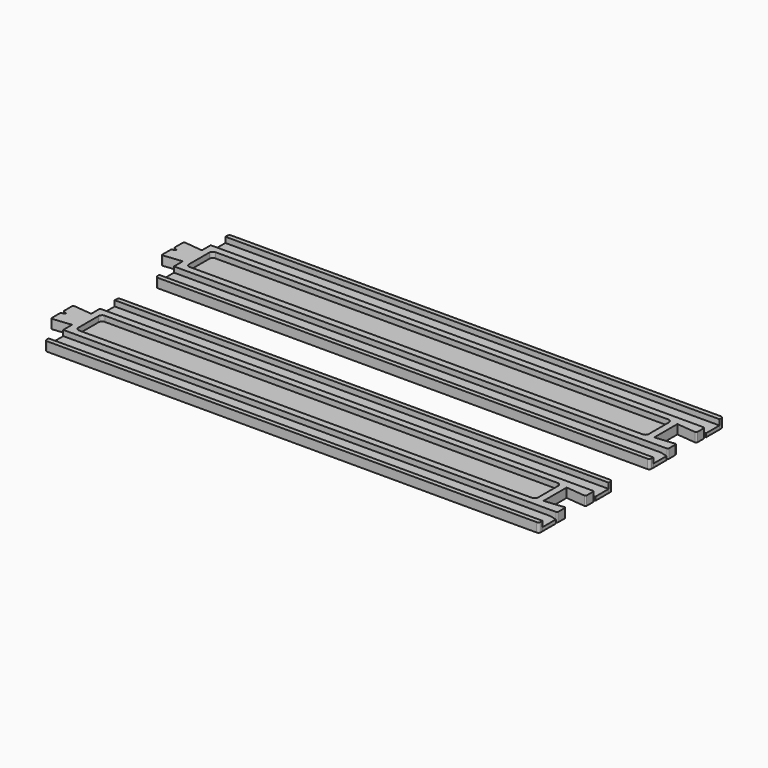
from build123d import *

# Parameters (mm, degrees)
F1_DEPTH = 2
F2_DEPTH = 0.8


with BuildPart() as f1:
    # F0 (on Top) → F1 (new body)
    with BuildSketch(Plane.XY):
        with BuildLine():
            Line((48.9310387218, 1), (-57.6689612782, 1))
            ThreePointArc((-57.6689612782, 1), (-58.0225146688, 0.8535533906), (-58.1689612782, 0.5))
            Line((-58.1689612782, 0.5), (-58.1689612782, 0))
            Line((-58.1689612782, 0), (49.4310387218, 0))
            Line((49.4310387218, 0), (49.4310387218, 0.5))
            ThreePointArc((49.4310387218, 0.5), (49.2845921124, 0.8535533906), (48.9310387218, 1))
        make_face()
    extrude(amount=F1_DEPTH)


with BuildPart() as f1b:
    # F0 (on Top) → F1, piece 2 (new body)
    with BuildSketch(Plane.XY):
        with BuildLine():
            Line((47.9310387218, -4), (-58.1689612782, -4))
            Line((-58.1689612782, -4), (-58.1689612782, -6.4))
            Line((-58.1689612782, -6.4), (-62.1691871508, -5.9790603277))
            ThreePointArc((-62.1691871508, -5.9790603277), (-62.362621132, -6.0418910502), (-62.4453499415, -6.2276875755))
            Line((-62.4453499415, -6.2276875755), (-62.4453499415, -8.5))
            Line((-62.4453499415, -8.5), (-61.5793245377, -9))
            Line((-61.5793245377, -9), (-62.4453499415, -9.5))
            Line((-62.4453499415, -9.5), (-62.4453499415, -11.7723124245))
            ThreePointArc((-62.4453499415, -11.7723124245), (-62.362621132, -11.9581089498), (-62.1691871508, -12.0209396723))
            Line((-62.1691871508, -12.0209396723), (-58.1689612782, -11.6))
            Line((-58.1689612782, -11.6), (-58.1689612782, -14))
            Line((-58.1689612782, -14), (47.9310387218, -14))
            Line((47.9310387218, -14), (49.1810387199, -14))
            ThreePointArc((49.1810387199, -14), (49.3578154159, -13.9267766946), (49.4310387199, -13.7499999981))
            Line((49.4310387199, -13.7499999981), (49.4310387064, -11.9763853971))
            ThreePointArc((49.4310387064, -11.9763853971), (49.348743804, -11.7909804362), (49.1560387064, -11.7276385397))
            Line((49.1560387064, -11.7276385397), (44.9535952373, -12.15))
            Line((44.9535952373, -12.15), (44.9535952225, -5.85))
            Line((44.9535952225, -5.85), (49.1560386934, -6.2723614605))
            ThreePointArc((49.1560386934, -6.2723614605), (49.3487437904, -6.2090195646), (49.4310386934, -6.0236146047))
            Line((49.4310386934, -6.0236146047), (49.4310387183, -4.2500000035))
            ThreePointArc((49.4310387183, -4.2500000035), (49.3578154149, -4.0732233059), (49.1810387183, -4))
            Line((49.1810387183, -4), (47.9310387218, -4))
        make_face()
        with BuildLine():
            ThreePointArc((-56.6689612782, -6.25), (-56.4492913641, -5.7196699141), (-55.9189612782, -5.5))
            Line((-55.9189612782, -5.5), (42.7035952381, -5.5))
            ThreePointArc((42.7035952381, -5.5), (43.233925324, -5.7196699141), (43.4535952381, -6.25))
            Line((43.4535952381, -6.25), (43.4535952381, -11.75))
            ThreePointArc((43.4535952381, -11.75), (43.233925324, -12.2803300859), (42.7035952381, -12.5))
            Line((42.7035952381, -12.5), (-55.9189612782, -12.5))
            ThreePointArc((-55.9189612782, -12.5), (-56.4492913641, -12.2803300859), (-56.6689612782, -11.75))
            Line((-56.6689612782, -11.75), (-56.6689612782, -6.25))
        make_face(mode=Mode.SUBTRACT)
    extrude(amount=F1_DEPTH)


with BuildPart() as f1c:
    # F0 (on Top) → F1, piece 3 (new body)
    with BuildSketch(Plane.XY):
        with BuildLine():
            Line((49.4310387218, -18), (-58.1689612782, -18))
            Line((-58.1689612782, -18), (-58.1689612782, -18.5))
            ThreePointArc((-58.1689612782, -18.5), (-58.0225146688, -18.8535533906), (-57.6689612782, -19))
            Line((-57.6689612782, -19), (48.9310387218, -19))
            ThreePointArc((48.9310387218, -19), (49.2845921124, -18.8535533906), (49.4310387218, -18.5))
            Line((49.4310387218, -18.5), (49.4310387218, -18))
        make_face()
    extrude(amount=F1_DEPTH)


with BuildPart() as f1d:
    # F0 (on Top) → F1, piece 4 (new body)
    with BuildSketch(Plane.XY):
        with BuildLine():
            Line((49.034391772, 31.0167935491), (-57.565608228, 31.0167935491))
            ThreePointArc((-57.565608228, 31.0167935491), (-57.9191616185, 30.8703469397), (-58.065608228, 30.5167935491))
            Line((-58.065608228, 30.5167935491), (-58.065608228, 30.0167935491))
            Line((-58.065608228, 30.0167935491), (49.534391772, 30.0167935491))
            Line((49.534391772, 30.0167935491), (49.534391772, 30.5167935491))
            ThreePointArc((49.534391772, 30.5167935491), (49.3879451626, 30.8703469397), (49.034391772, 31.0167935491))
        make_face()
    extrude(amount=F1_DEPTH)


with BuildPart() as f1e:
    # F0 (on Top) → F1, piece 5 (new body)
    with BuildSketch(Plane.XY):
        with BuildLine():
            Line((48.034391772, 26.0167935491), (-58.065608228, 26.0167935491))
            Line((-58.065608228, 26.0167935491), (-58.065608228, 23.6167935491))
            Line((-58.065608228, 23.6167935491), (-62.0658341006, 24.0377332214))
            ThreePointArc((-62.0658341006, 24.0377332214), (-62.2592680818, 23.9749024989), (-62.3419968913, 23.7891059735))
            Line((-62.3419968913, 23.7891059735), (-62.3419968913, 21.5167935491))
            Line((-62.3419968913, 21.5167935491), (-61.4759714875, 21.0167935491))
            Line((-61.4759714875, 21.0167935491), (-62.3419968913, 20.5167935491))
            Line((-62.3419968913, 20.5167935491), (-62.3419968913, 18.2444811246))
            ThreePointArc((-62.3419968913, 18.2444811246), (-62.2592680818, 18.0586845992), (-62.0658341006, 17.9958538767))
            Line((-62.0658341006, 17.9958538767), (-58.065608228, 18.4167935491))
            Line((-58.065608228, 18.4167935491), (-58.065608228, 16.0167935491))
            Line((-58.065608228, 16.0167935491), (48.034391772, 16.0167935491))
            Line((48.034391772, 16.0167935491), (49.2843917886, 16.0167935491))
            ThreePointArc((49.2843917886, 16.0167935491), (49.4611684781, 16.0900168479), (49.5343917886, 16.2667935325))
            Line((49.5343917886, 16.2667935325), (49.5343919064, 18.0404081314))
            ThreePointArc((49.5343919064, 18.0404081314), (49.4520970108, 18.2258131046), (49.2593919064, 18.2891550073))
            Line((49.2593919064, 18.2891550073), (45.0569484577, 17.8667935491))
            Line((45.0569484577, 17.8667935491), (45.0569483455, 24.1667935491))
            Line((45.0569483455, 24.1667935491), (49.2593918076, 23.7444320895))
            ThreePointArc((49.2593918076, 23.7444320895), (49.4520969076, 23.807773988), (49.5343918076, 23.9931789531))
            Line((49.5343918076, 23.9931789531), (49.5343917764, 25.7667935535))
            ThreePointArc((49.5343917764, 25.7667935535), (49.4611684702, 25.9435702459), (49.2843917764, 26.0167935491))
            Line((49.2843917764, 26.0167935491), (48.034391772, 26.0167935491))
        make_face()
        with BuildLine():
            ThreePointArc((-56.565608228, 23.7667935491), (-56.3459383138, 24.297123635), (-55.815608228, 24.5167935491))
            Line((-55.815608228, 24.5167935491), (42.8069484639, 24.5167935491))
            ThreePointArc((42.8069484639, 24.5167935491), (43.3372785498, 24.297123635), (43.5569484639, 23.7667935491))
            Line((43.5569484639, 23.7667935491), (43.5569484639, 18.2667935491))
            ThreePointArc((43.5569484639, 18.2667935491), (43.3372785498, 17.7364634632), (42.8069484639, 17.5167935491))
            Line((42.8069484639, 17.5167935491), (-55.815608228, 17.5167935491))
            ThreePointArc((-55.815608228, 17.5167935491), (-56.3459383138, 17.7364634632), (-56.565608228, 18.2667935491))
            Line((-56.565608228, 18.2667935491), (-56.565608228, 23.7667935491))
        make_face(mode=Mode.SUBTRACT)
    extrude(amount=F1_DEPTH)


with BuildPart() as f1f:
    # F0 (on Top) → F1, piece 6 (new body)
    with BuildSketch(Plane.XY):
        with BuildLine():
            Line((49.534391772, 12.0167935491), (-58.065608228, 12.0167935491))
            Line((-58.065608228, 12.0167935491), (-58.065608228, 11.5167935491))
            ThreePointArc((-58.065608228, 11.5167935491), (-57.9191616185, 11.1632401585), (-57.565608228, 11.0167935491))
            Line((-57.565608228, 11.0167935491), (49.034391772, 11.0167935491))
            ThreePointArc((49.034391772, 11.0167935491), (49.3879451626, 11.1632401585), (49.534391772, 11.5167935491))
            Line((49.534391772, 11.5167935491), (49.534391772, 12.0167935491))
        make_face()
    extrude(amount=F1_DEPTH)


with BuildPart() as f2:
    # F0 (on Top) → F2 (new body)
    with BuildSketch(Plane.XY):
        Polygon((49.4310387218, 0), (-58.1689612782, 0), (-58.1689612782, -4), (47.9310387218, -4), (49.4310387218, -3.6), align=None)
    extrude(amount=F2_DEPTH)


with BuildPart() as f2b:
    # F0 (on Top) → F2, piece 2 (new body)
    with BuildSketch(Plane.XY):
        with BuildLine():
            Line((42.7035952381, -5.5), (-55.9189612782, -5.5))
            ThreePointArc((-55.9189612782, -5.5), (-56.4492913641, -5.7196699141), (-56.6689612782, -6.25))
            Line((-56.6689612782, -6.25), (-56.6689612782, -11.75))
            ThreePointArc((-56.6689612782, -11.75), (-56.4492913641, -12.2803300859), (-55.9189612782, -12.5))
            Line((-55.9189612782, -12.5), (42.7035952381, -12.5))
            ThreePointArc((42.7035952381, -12.5), (43.233925324, -12.2803300859), (43.4535952381, -11.75))
            Line((43.4535952381, -11.75), (43.4535952381, -6.25))
            ThreePointArc((43.4535952381, -6.25), (43.233925324, -5.7196699141), (42.7035952381, -5.5))
        make_face()
    extrude(amount=F2_DEPTH)


with BuildPart() as f2c:
    # F0 (on Top) → F2, piece 3 (new body)
    with BuildSketch(Plane.XY):
        Polygon((47.9310387218, -14), (-58.1689612782, -14), (-58.1689612782, -18), (49.4310387218, -18), (49.4310387218, -14.4), align=None)
    extrude(amount=F2_DEPTH)


with BuildPart() as f2d:
    # F0 (on Top) → F2, piece 4 (new body)
    with BuildSketch(Plane.XY):
        Polygon((49.534391772, 30.0167935491), (-58.065608228, 30.0167935491), (-58.065608228, 26.0167935491), (48.034391772, 26.0167935491), (49.534391772, 26.4167935491), align=None)
    extrude(amount=F2_DEPTH)


with BuildPart() as f2e:
    # F0 (on Top) → F2, piece 5 (new body)
    with BuildSketch(Plane.XY):
        with BuildLine():
            Line((42.8069484639, 24.5167935491), (-55.815608228, 24.5167935491))
            ThreePointArc((-55.815608228, 24.5167935491), (-56.3459383138, 24.297123635), (-56.565608228, 23.7667935491))
            Line((-56.565608228, 23.7667935491), (-56.565608228, 18.2667935491))
            ThreePointArc((-56.565608228, 18.2667935491), (-56.3459383138, 17.7364634632), (-55.815608228, 17.5167935491))
            Line((-55.815608228, 17.5167935491), (42.8069484639, 17.5167935491))
            ThreePointArc((42.8069484639, 17.5167935491), (43.3372785498, 17.7364634632), (43.5569484639, 18.2667935491))
            Line((43.5569484639, 18.2667935491), (43.5569484639, 23.7667935491))
            ThreePointArc((43.5569484639, 23.7667935491), (43.3372785498, 24.297123635), (42.8069484639, 24.5167935491))
        make_face()
    extrude(amount=F2_DEPTH)


with BuildPart() as f2f:
    # F0 (on Top) → F2, piece 6 (new body)
    with BuildSketch(Plane.XY):
        Polygon((48.034391772, 16.0167935491), (-58.065608228, 16.0167935491), (-58.065608228, 12.0167935491), (49.534391772, 12.0167935491), (49.534391772, 15.6167935491), align=None)
    extrude(amount=F2_DEPTH)


solid = Compound([f1.part, f1b.part, f1c.part, f1d.part, f1e.part, f1f.part, f2.part, f2b.part, f2c.part, f2d.part, f2e.part, f2f.part])
